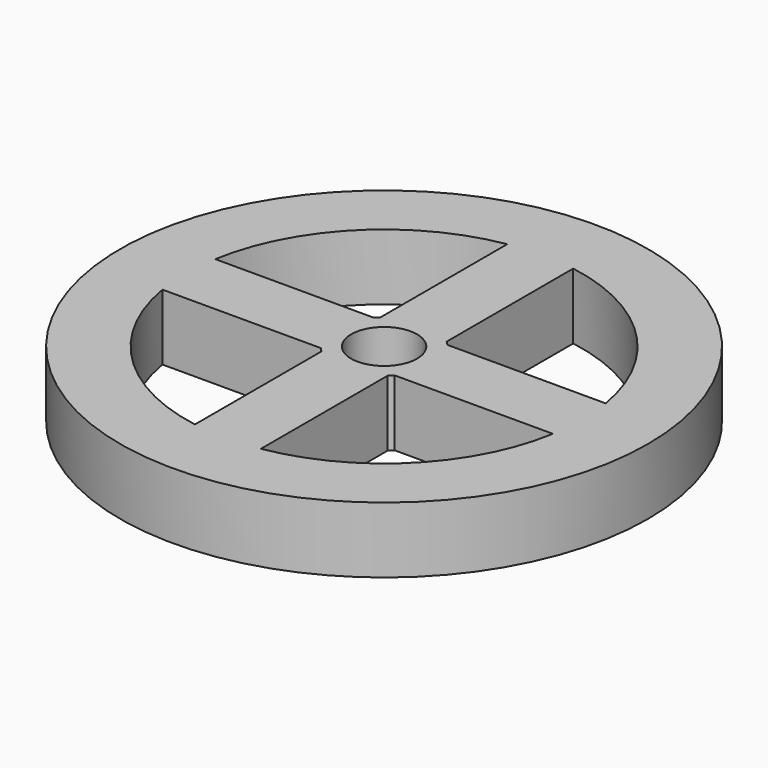
from build123d import *

# Parameters (mm, degrees)
F0_R     = 12.7
F0_R_2   = 1.5875
F1_DEPTH = 3.175


with BuildPart() as f1:
    # F0 (on Top) → F1 (new body)
    with BuildSketch(Plane.XY):
        Circle(F0_R)
        with BuildLine():
            ThreePointArc((-1.5875, -9.391777), (-6.735192, -6.735192), (-9.391777, -1.5875))
            Line((-9.391777, -1.5875), (-1.774879, -1.5875))
            ThreePointArc((-1.774879, -1.5875), (-1.683798, -1.683798), (-1.5875, -1.774879))
            Line((-1.5875, -1.774879), (-1.5875, -9.391777))
        make_face(mode=Mode.SUBTRACT)
        Circle(F0_R_2, mode=Mode.SUBTRACT)
        with BuildLine():
            Line((1.5875, -9.391777), (1.5875, -1.774879))
            ThreePointArc((1.5875, -1.774879), (1.683798, -1.683798), (1.774879, -1.5875))
            Line((1.774879, -1.5875), (9.391777, -1.5875))
            ThreePointArc((9.391777, -1.5875), (6.735192, -6.735192), (1.5875, -9.391777))
        make_face(mode=Mode.SUBTRACT)
        with BuildLine():
            Line((-1.5875, 9.391777), (-1.5875, 1.774879))
            ThreePointArc((-1.5875, 1.774879), (-1.683798, 1.683798), (-1.774879, 1.5875))
            Line((-1.774879, 1.5875), (-9.391777, 1.5875))
            ThreePointArc((-9.391777, 1.5875), (-6.735192, 6.735192), (-1.5875, 9.391777))
        make_face(mode=Mode.SUBTRACT)
        with BuildLine():
            ThreePointArc((1.774879, 1.5875), (1.683798, 1.683798), (1.5875, 1.774879))
            Line((1.5875, 1.774879), (1.5875, 9.391777))
            ThreePointArc((1.5875, 9.391777), (6.735192, 6.735192), (9.391777, 1.5875))
            Line((9.391777, 1.5875), (1.774879, 1.5875))
        make_face(mode=Mode.SUBTRACT)
    extrude(amount=F1_DEPTH)


solid = f1.part
